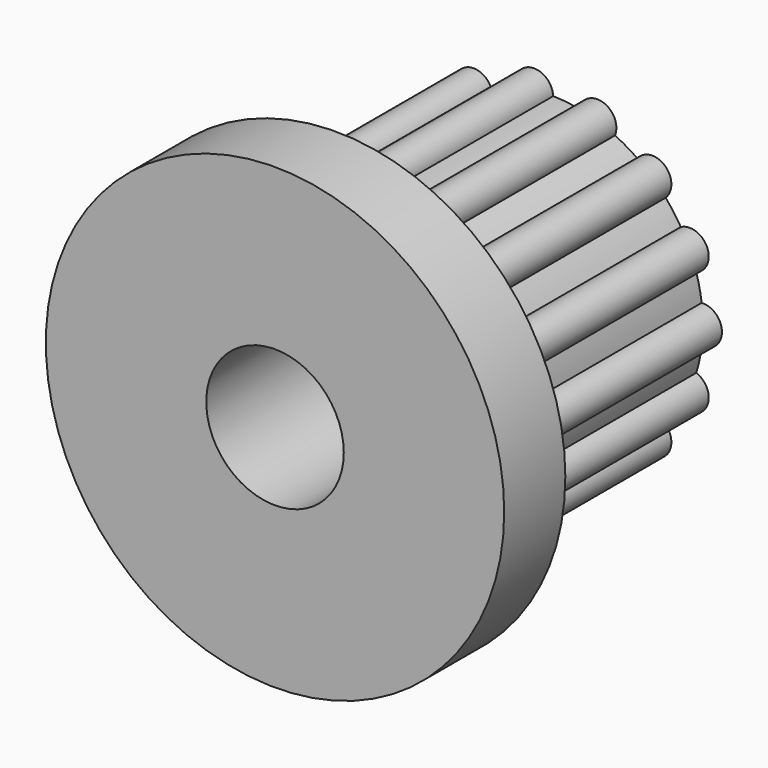
from build123d import *

# Parameters (mm, degrees)
CYLINDER011034_R     = 1.8
CYLINDER011034_DEPTH = 20
CYLINDER011033_R     = 6
CYLINDER011033_DEPTH = 2
CYLINDER011035_R     = 0.5
CYLINDER011035_DEPTH = 7
ARRAY018_COUNT       = 15
CYLINDER011032_R     = 4
CYLINDER011032_DEPTH = 7


with BuildPart() as belt_attach_bolt_hole001:
    # Cylinder011034 → Cylinder011034 (new body)
    with BuildSketch(Plane.XZ):
        Circle(CYLINDER011034_R)
    extrude(amount=CYLINDER011034_DEPTH)


with BuildPart() as belt_disk001:
    # Cylinder011033 → Cylinder011033 (new body)
    with BuildSketch(Plane.XZ.offset(7)):
        Circle(CYLINDER011033_R)
    extrude(amount=CYLINDER011033_DEPTH)


with BuildPart() as belt_pin_array001:
    # Cylinder011035 → Cylinder011035 (new body)
    with BuildSketch(Plane(origin=(4, 0, 0), x_dir=(1, 0, 0), z_dir=(0, -1, 0))):
        Circle(CYLINDER011035_R)
    extrude(amount=CYLINDER011035_DEPTH)

    # Array018: belt pin array001 ×15 about axis
    array018_axis = Axis((0, 0, 0), (0, 1, 0))


with BuildPart() as belt_pin_array001_1:
    add(belt_pin_array001.part)
    for i in range(1, ARRAY018_COUNT):
        add(belt_pin_array001.part.rotate(array018_axis, i * 360 / ARRAY018_COUNT))


with BuildPart() as horizontal_belt_attach_cut:
    # Cylinder011032 → Cylinder011032 (new body)
    with BuildSketch(Plane.XZ):
        Circle(CYLINDER011032_R)
    extrude(amount=CYLINDER011032_DEPTH)

    # Fusion012: union belt disk001, belt pin array001
    add(belt_disk001.part)
    add(belt_pin_array001_1.part)

    # Cut023015009022: cut belt attach bolt hole001
    add(belt_attach_bolt_hole001.part, mode=Mode.SUBTRACT)


solid = horizontal_belt_attach_cut.part
